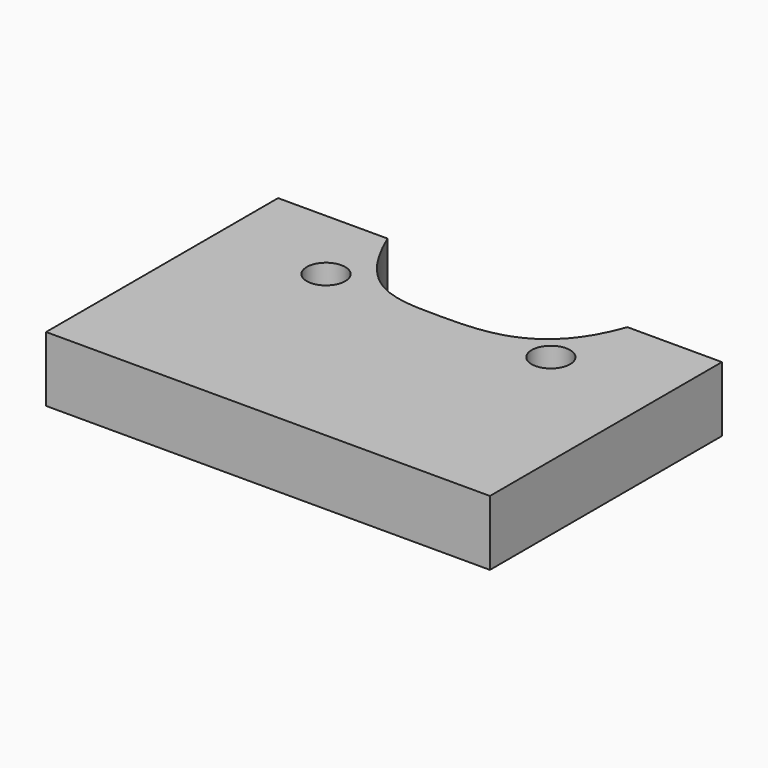
from build123d import *

# Parameters (mm, degrees)
F1_DEPTH = 11
F2_D     = 6.5
F3_DEPTH = 38.9


with BuildPart() as f1:
    # F0 (on Top) → F1 (new body)
    with BuildSketch(Plane.XY):
        with BuildLine():
            Line((-37.3461883515, 23.3051764891), (-37.3461883515, -25.6948235109))
            Line((-37.3461883515, -25.6948235109), (37.6538116485, -25.6948235109))
            Line((37.6538116485, -25.6948235109), (37.6538116485, 23.3051764891))
            Line((37.6538116485, 23.3051764891), (21.6870121658, 23.3051764891))
            add(Edge.make_bspline(
                [(-18.8461883515, 23.3051764891), (-13.3813479915, 10.3051764891), (-1.0917122471, 10.3051764891), (17.0727558434, 10.3051764891), (21.6870121658, 23.3051764891)],
                knots=[0, 0, 0, 0, 0.4875911488, 1, 1, 1, 1], degree=3))
            Line((-18.8461883515, 23.3051764891), (-37.3461883515, 23.3051764891))
        make_face()
        with BuildLine():
            Line((21.6870121658, 23.3051764891), (-18.8461883515, 23.3051764891))
            add(Edge.make_bspline(
                [(-18.8461883515, 23.3051764891), (-13.3813479915, 10.3051764891), (-1.0917122471, 10.3051764891), (17.0727558434, 10.3051764891), (21.6870121658, 23.3051764891)],
                knots=[0, 0, 0, 0, 0.4875911488, 1, 1, 1, 1], degree=3))
        make_face()
    extrude(amount=F1_DEPTH)

    # F2 (through all)
    with Locations(Plane(origin=(0, 0, 0), x_dir=(1, 0, 0), z_dir=(0, 0, -1))):
        with Locations((19.1538116485, -10.3051764891), (-18.8461883515, -10.3051764891)):
            Hole(F2_D / 2)

    # F0 (on Top) → F3 (cut)
    with BuildSketch(Plane.XY):
        with BuildLine():
            Line((21.6870121658, 23.3051764891), (-18.8461883515, 23.3051764891))
            add(Edge.make_bspline(
                [(-18.8461883515, 23.3051764891), (-13.3813479915, 10.3051764891), (-1.0917122471, 10.3051764891), (17.0727558434, 10.3051764891), (21.6870121658, 23.3051764891)],
                knots=[0, 0, 0, 0, 0.4875911488, 1, 1, 1, 1], degree=3))
        make_face()
    extrude(amount=F3_DEPTH, mode=Mode.SUBTRACT)


solid = f1.part
